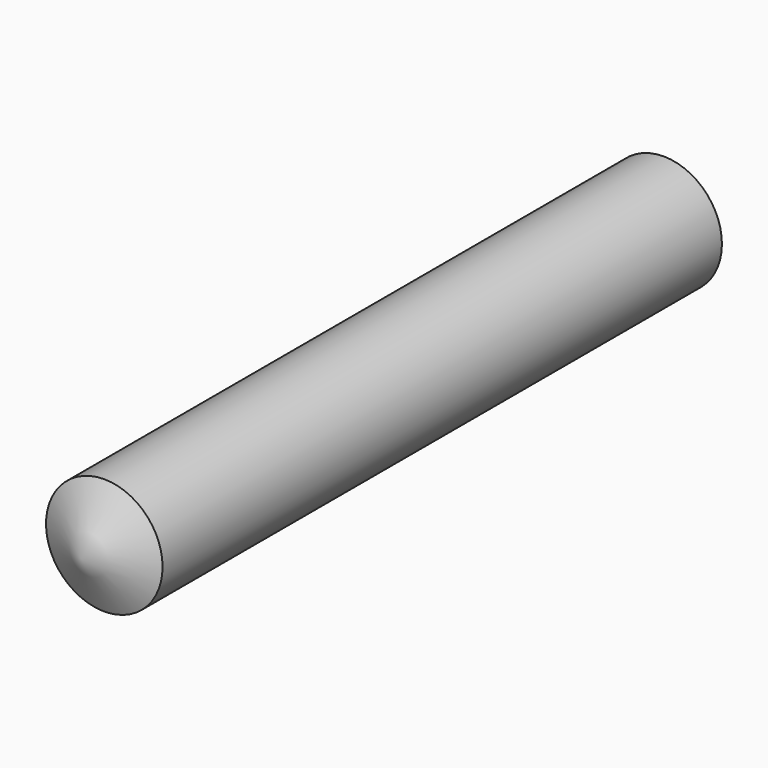
from build123d import *

# Parameters (mm, degrees)
F0_R     = 2.5
F1_DEPTH = 30


with BuildPart() as f1:
    # F0 (on Front) → F1 (new body)
    with BuildSketch(Plane.XZ):
        Circle(F0_R)
    extrude(amount=F1_DEPTH)

    # F5 (on 3pt) → F6 (revolve)
    with BuildSketch(Plane(origin=(0, 0, 0), x_dir=(0, -1, 0), z_dir=(-1, 0, 0))):
        Polygon((30, 2.5), (30, 0), (31.25, 0), align=None)
        Polygon((-1.25, 0), (0, 0), (0, 2.5), align=None)
    revolve(axis=Axis((0, -14.9693759158, 0), (0, 1, 0)))


solid = f1.part
